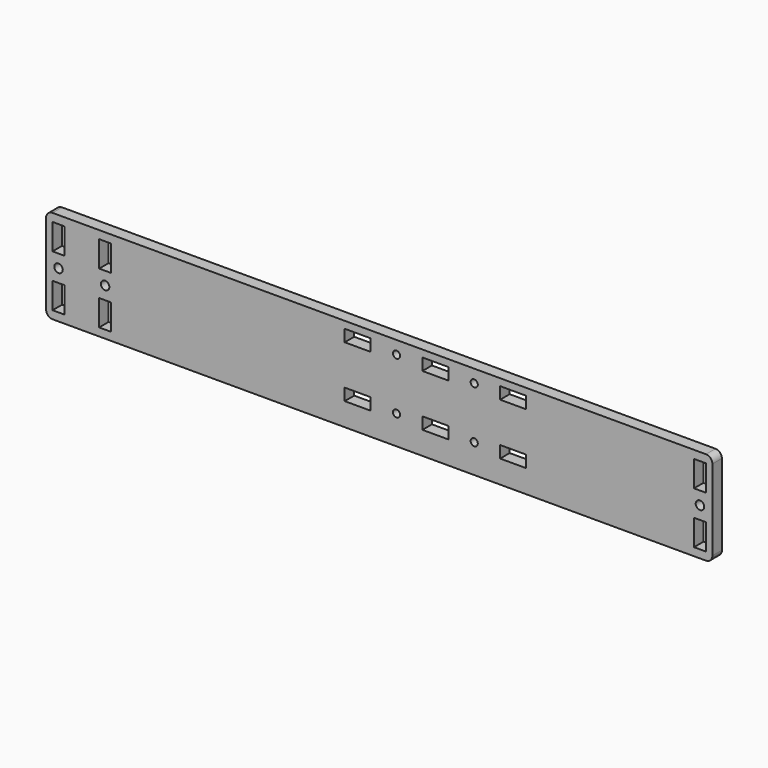
from build123d import *

# Parameters (mm, degrees)
F0_W     = 326.6186
F0_H     = 45.9232
F0_W_2   = 5.842
F0_H_2   = 12.7
F1_DEPTH = 5.842
F2_R     = 3.175
F3_R     = 2.0828
F4_DEPTH = 25.4
F5_R     = 2.0828
F6_DEPTH = 25.4
F7_W     = 12.7
F7_H     = 5.842
F7_R     = 1.7526
F8_DEPTH = 25.4


with BuildPart() as f1:
    # F0 (on Front) → F1 (new body)
    with BuildSketch(Plane.XZ):
        Rectangle(F0_W, F0_H)
        with Locations((-157.2133, -12.7)):
            Rectangle(F0_W_2, F0_H_2, mode=Mode.SUBTRACT)
        with Locations((-134.3787, -12.7)):
            Rectangle(F0_W_2, F0_H_2, mode=Mode.SUBTRACT)
        with Locations((157.2133, -12.7)):
            Rectangle(F0_W_2, F0_H_2, mode=Mode.SUBTRACT)
        with Locations((-157.2133, 12.7)):
            Rectangle(F0_W_2, F0_H_2, mode=Mode.SUBTRACT)
        with Locations((-134.3787, 12.7)):
            Rectangle(F0_W_2, F0_H_2, mode=Mode.SUBTRACT)
        with Locations((157.2133, 12.7)):
            Rectangle(F0_W_2, F0_H_2, mode=Mode.SUBTRACT)
    extrude(amount=F1_DEPTH)

    # F2
    f2_edges = [f1.edges().sort_by_distance(p)[0] for p in [
        (-163.3093, -2.921, 22.9616),
        (-163.3093, -2.921, -22.9616),
        (163.3093, -2.921, 22.9616),
        (163.3093, -2.921, -22.9616),
    ]]
    fillet(f2_edges, radius=F2_R)

    # F3 (on face) → F4 (cut)
    with BuildSketch(Plane.XZ.offset(5.842)):
        with Locations((-134.3787, 0)):
            Circle(F3_R)
        with Locations((-157.2133, 0)):
            Circle(F3_R)
    extrude(amount=-F4_DEPTH, mode=Mode.SUBTRACT)

    # F5 (on face) → F6 (cut)
    with BuildSketch(Plane.XZ.offset(5.842)):
        with Locations((157.2133, 0)):
            Circle(F5_R)
    extrude(amount=-F6_DEPTH, mode=Mode.SUBTRACT)

    # F7 (on face) → F8 (cut)
    with BuildSketch(Plane.XZ.offset(5.842)):
        with Locations((-10.58418, 16.6116)):
            Rectangle(F7_W, F7_H)
        with Locations((27.51582, 16.6116)):
            Rectangle(F7_W, F7_H)
        with Locations((65.61582, 16.6116)):
            Rectangle(F7_W, F7_H)
        with Locations((8.46582, 16.6116)):
            Circle(F7_R)
        with Locations((46.56582, 16.6116)):
            Circle(F7_R)
        with Locations((-10.58418, -8.7884)):
            Rectangle(F7_W, F7_H)
        with Locations((27.51582, -8.7884)):
            Rectangle(F7_W, F7_H)
        with Locations((65.61582, -8.7884)):
            Rectangle(F7_W, F7_H)
        with Locations((8.46582, -8.7884)):
            Circle(F7_R)
        with Locations((46.56582, -8.7884)):
            Circle(F7_R)
    extrude(amount=-F8_DEPTH, mode=Mode.SUBTRACT)


solid = f1.part
